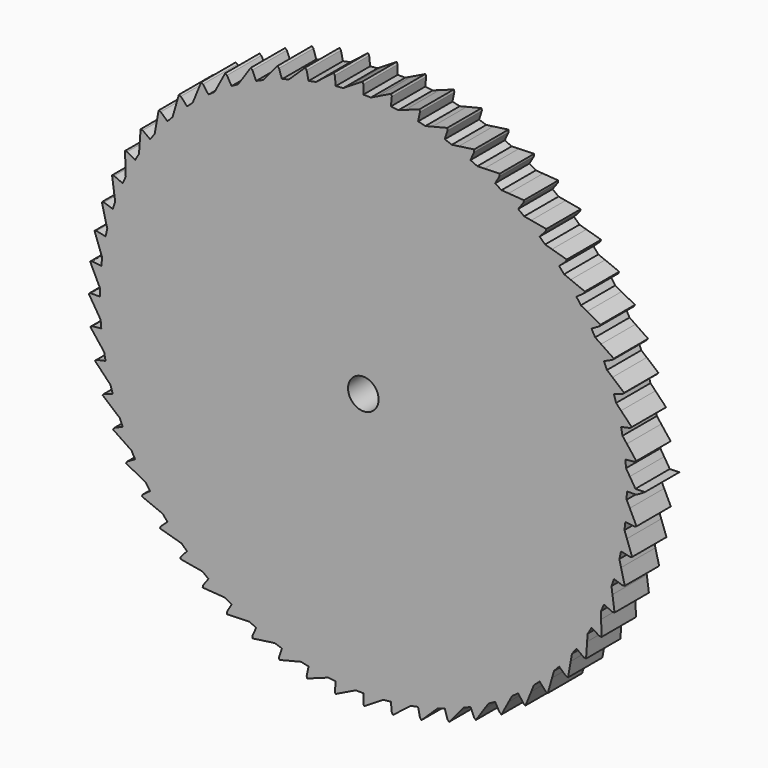
from build123d import *

# Parameters (mm, degrees)
F1_DEPTH = 5
F2_R     = 1.778
F3_DEPTH = 25.4


with BuildPart() as f1:
    # F0 (on Front) → F1 (new body)
    with BuildSketch(Plane.XZ):
        with BuildLine():
            Line((-8.043831, 30.019987), (-7.941397, 29.637695))
            ThreePointArc((-7.941397, 29.637695), (-8.294034, 29.540951), (-8.645493, 29.44001))
            ThreePointArc((-8.645493, 29.44001), (-9.064484, 29.313715), (-9.48163, 29.181457))
            Line((-9.48163, 29.181457), (-9.81129, 30.196044))
            ThreePointArc((-9.81129, 30.196044), (-9.900263, 30.288334), (-9.990715, 30.379174))
            Line((-9.990715, 30.379174), (-11.137709, 29.014725))
            Line((-11.137709, 29.014725), (-10.995875, 28.645235))
            ThreePointArc((-10.995875, 28.645235), (-11.336469, 28.51216), (-11.675452, 28.375035))
            ThreePointArc((-11.675452, 28.375035), (-12.078945, 28.205635), (-12.479982, 28.030498))
            Line((-12.479982, 28.030498), (-12.913888, 29.005068))
            ThreePointArc((-12.913888, 29.005068), (-13.012021, 29.087552), (-13.111473, 29.16844))
            Line((-13.111473, 29.16844), (-14.109561, 27.691572))
            Line((-14.109561, 27.691572), (-13.929881, 27.338931))
            ThreePointArc((-13.929881, 27.338931), (-14.254698, 27.170983), (-14.577491, 26.999176))
            ThreePointArc((-14.577491, 26.999176), (-14.961067, 26.788528), (-15.3416, 26.572431))
            Line((-15.3416, 26.572431), (-15.875, 27.496307))
            ThreePointArc((-15.875, 27.496307), (-15.981217, 27.568081), (-16.088579, 27.63813))
            Line((-16.088579, 27.63813), (-16.926824, 26.065024))
            Line((-16.926824, 26.065024), (-16.711268, 25.733097))
            ThreePointArc((-16.711268, 25.733097), (-17.016751, 25.532116), (-17.319816, 25.327509))
            ThreePointArc((-17.319816, 25.327509), (-17.679272, 25.07792), (-18.035132, 24.82323))
            Line((-18.035132, 24.82323), (-18.662182, 25.68629))
            ThreePointArc((-18.662182, 25.68629), (-18.775319, 25.746568), (-18.889415, 25.805011))
            Line((-18.889415, 25.805011), (-19.558634, 24.152902))
            Line((-19.558634, 24.152902), (-19.309563, 23.845325))
            ThreePointArc((-19.309563, 23.845325), (-19.592364, 23.613514), (-19.872382, 23.378349))
            ThreePointArc((-19.872382, 23.378349), (-20.20378, 23.092554), (-20.531068, 22.802061))
            Line((-20.531068, 22.802061), (-21.244897, 23.594848))
            ThreePointArc((-21.244897, 23.594848), (-21.363715, 23.64297), (-21.483295, 23.689167))
            Line((-21.483295, 23.689167), (-21.976156, 21.976156))
            Line((-21.976156, 21.976156), (-21.696299, 21.696299))
            ThreePointArc((-21.696299, 21.696299), (-21.953319, 21.436197), (-22.207222, 21.17305))
            ThreePointArc((-22.207222, 21.17305), (-22.506931, 20.85418), (-22.802061, 20.531068))
            Line((-22.802061, 20.531068), (-23.594848, 21.244897))
            ThreePointArc((-23.594848, 21.244897), (-23.718046, 21.280335), (-23.8418, 21.313779))
            Line((-23.8418, 21.313779), (-24.152902, 19.558634))
            Line((-24.152902, 19.558634), (-23.845325, 19.309563))
            ThreePointArc((-23.845325, 19.309563), (-24.07375, 19.02402), (-24.298755, 18.735775))
            ThreePointArc((-24.298755, 18.735775), (-24.563491, 18.387324), (-24.82323, 18.035132))
            Line((-24.82323, 18.035132), (-25.68629, 18.662182))
            ThreePointArc((-25.68629, 18.662182), (-25.812517, 18.684548), (-25.939088, 18.704873))
            Line((-25.939088, 18.704873), (-26.065024, 16.926824))
            Line((-26.065024, 16.926824), (-25.733097, 16.711268))
            ThreePointArc((-25.733097, 16.711268), (-25.930423, 16.403413), (-26.124066, 16.093227))
            ThreePointArc((-26.124066, 16.093227), (-26.350928, 15.719012), (-26.572431, 15.3416))
            Line((-26.572431, 15.3416), (-27.496307, 15.875))
            ThreePointArc((-27.496307, 15.875), (-27.62418, 15.88405), (-27.752183, 15.891033))
            Line((-27.752183, 15.891033), (-27.691572, 14.109561))
            Line((-27.691572, 14.109561), (-27.338931, 13.929881))
            ThreePointArc((-27.338931, 13.929881), (-27.502997, 13.603086), (-27.663156, 13.274358))
            Line((-27.663156, 13.274358), (-27.186551, -0.73387))
            Line((-27.186551, -0.73387), (27.195286, 0.477139))
            Line((27.195286, 0.477139), (27.39237, 0.481527))
            Line((27.39237, 0.481527), (27.899687, 0.492825))
            Line((27.899687, 0.492825), (28.746006, 0.511671))
            Line((28.746006, 0.511671), (29.982479, 0.539206))
            Line((29.982479, 0.539206), (31.690754, 0.577247))
            Line((31.690754, 0.577247), (31.036385, 1.626548))
            Line((31.036385, 1.626548), (30.64115, 1.605835))
            ThreePointArc((30.64115, 1.605835), (30.619837, 1.97088), (30.594175, 2.335646))
            ThreePointArc((30.594175, 2.335646), (30.557752, 2.771739), (30.515114, 3.207268))
            Line((30.515114, 3.207268), (31.57607, 3.318779))
            ThreePointArc((31.57607, 3.318779), (31.684841, 3.38662), (31.792503, 3.456208))
            Line((31.792503, 3.456208), (30.696344, 4.861823))
            Line((30.696344, 4.861823), (30.305439, 4.79991))
            ThreePointArc((30.305439, 4.79991), (30.246085, 5.160728), (30.182435, 5.520813))
            ThreePointArc((30.182435, 5.520813), (30.100628, 5.95071), (30.012698, 6.379396))
            Line((30.012698, 6.379396), (31.056186, 6.601196))
            ThreePointArc((31.056186, 6.601196), (31.15727, 6.680035), (31.257068, 6.760496))
            Line((31.257068, 6.760496), (30.019987, 8.043831))
            Line((30.019987, 8.043831), (29.637695, 7.941397))
            ThreePointArc((29.637695, 7.941397), (29.540951, 8.294034), (29.44001, 8.645493))
            ThreePointArc((29.44001, 8.645493), (29.313715, 9.064484), (29.181457, 9.48163))
            Line((29.181457, 9.48163), (30.196044, 9.81129))
            ThreePointArc((30.196044, 9.81129), (30.288334, 9.900263), (30.379174, 9.990715))
            Line((30.379174, 9.990715), (29.014725, 11.137709))
            Line((29.014725, 11.137709), (28.645235, 10.995875))
            ThreePointArc((28.645235, 10.995875), (28.51216, 11.336469), (28.375035, 11.675452))
            ThreePointArc((28.375035, 11.675452), (28.205635, 12.078945), (28.030498, 12.479982))
            Line((28.030498, 12.479982), (29.005068, 12.913888))
            ThreePointArc((29.005068, 12.913888), (29.087552, 13.012021), (29.16844, 13.111473))
            Line((29.16844, 13.111473), (27.691572, 14.109561))
            Line((27.691572, 14.109561), (27.338931, 13.929881))
            ThreePointArc((27.338931, 13.929881), (27.170983, 14.254698), (26.999176, 14.577491))
            ThreePointArc((26.999176, 14.577491), (26.788528, 14.961067), (26.572431, 15.3416))
            Line((26.572431, 15.3416), (27.496307, 15.875))
            ThreePointArc((27.496307, 15.875), (27.568081, 15.981217), (27.63813, 16.088579))
            Line((27.63813, 16.088579), (26.065024, 16.926824))
            Line((26.065024, 16.926824), (25.733097, 16.711268))
            ThreePointArc((25.733097, 16.711268), (25.532116, 17.016751), (25.327509, 17.319816))
            ThreePointArc((25.327509, 17.319816), (25.07792, 17.679272), (24.82323, 18.035132))
            Line((24.82323, 18.035132), (25.68629, 18.662182))
            ThreePointArc((25.68629, 18.662182), (25.746568, 18.775319), (25.805011, 18.889415))
            Line((25.805011, 18.889415), (24.152902, 19.558634))
            Line((24.152902, 19.558634), (23.845325, 19.309563))
            ThreePointArc((23.845325, 19.309563), (23.613514, 19.592364), (23.378349, 19.872382))
            ThreePointArc((23.378349, 19.872382), (23.092554, 20.20378), (22.802061, 20.531068))
            Line((22.802061, 20.531068), (23.594848, 21.244897))
            ThreePointArc((23.594848, 21.244897), (23.64297, 21.363715), (23.689167, 21.483295))
            Line((23.689167, 21.483295), (21.976156, 21.976156))
            Line((21.976156, 21.976156), (21.696299, 21.696299))
            ThreePointArc((21.696299, 21.696299), (21.436197, 21.953319), (21.17305, 22.207222))
            ThreePointArc((21.17305, 22.207222), (20.85418, 22.506931), (20.531068, 22.802061))
            Line((20.531068, 22.802061), (21.244897, 23.594848))
            ThreePointArc((21.244897, 23.594848), (21.280335, 23.718046), (21.313779, 23.8418))
            Line((21.313779, 23.8418), (19.558634, 24.152902))
            Line((19.558634, 24.152902), (19.309563, 23.845325))
            ThreePointArc((19.309563, 23.845325), (19.02402, 24.07375), (18.735775, 24.298755))
            ThreePointArc((18.735775, 24.298755), (18.387324, 24.563491), (18.035132, 24.82323))
            Line((18.035132, 24.82323), (18.662182, 25.68629))
            ThreePointArc((18.662182, 25.68629), (18.684548, 25.812517), (18.704873, 25.939088))
            Line((18.704873, 25.939088), (16.926824, 26.065024))
            Line((16.926824, 26.065024), (16.711268, 25.733097))
            ThreePointArc((16.711268, 25.733097), (16.403413, 25.930423), (16.093227, 26.124066))
            ThreePointArc((16.093227, 26.124066), (15.719012, 26.350928), (15.3416, 26.572431))
            Line((15.3416, 26.572431), (15.875, 27.496307))
            ThreePointArc((15.875, 27.496307), (15.88405, 27.62418), (15.891033, 27.752183))
            Line((15.891033, 27.752183), (14.109561, 27.691572))
            Line((14.109561, 27.691572), (13.929881, 27.338931))
            ThreePointArc((13.929881, 27.338931), (13.603086, 27.502997), (13.274358, 27.663156))
            ThreePointArc((13.274358, 27.663156), (12.87848, 27.849659), (12.479982, 28.030498))
            Line((12.479982, 28.030498), (12.913888, 29.005068))
            ThreePointArc((12.913888, 29.005068), (12.909522, 29.133187), (12.903087, 29.261219))
            Line((12.903087, 29.261219), (11.137709, 29.014725))
            Line((11.137709, 29.014725), (10.995875, 28.645235))
            ThreePointArc((10.995875, 28.645235), (10.653721, 28.774242), (10.310053, 28.899162))
            ThreePointArc((10.310053, 28.899162), (9.896848, 29.043264), (9.48163, 29.181457))
            Line((9.48163, 29.181457), (9.81129, 30.196044))
            ThreePointArc((9.81129, 30.196044), (9.793555, 30.323005), (9.773772, 30.449663))
            Line((9.773772, 30.449663), (8.043831, 30.019987))
            Line((8.043831, 30.019987), (7.941397, 29.637695))
            ThreePointArc((7.941397, 29.637695), (7.587631, 29.730231), (7.232788, 29.818544))
            ThreePointArc((7.232788, 29.818544), (6.806784, 29.918664), (6.379396, 30.012698))
            Line((6.379396, 30.012698), (6.601196, 31.056186))
            ThreePointArc((6.601196, 31.056186), (6.570288, 31.180598), (6.537374, 31.304494))
            Line((6.537374, 31.304494), (4.861823, 30.696344))
            Line((4.861823, 30.696344), (4.79991, 30.305439))
            ThreePointArc((4.79991, 30.305439), (4.43841, 30.360489), (4.07628, 30.411227))
            ThreePointArc((4.07628, 30.411227), (3.642144, 30.466269), (3.207268, 30.515114))
            Line((3.207268, 30.515114), (3.318779, 31.57607))
            ThreePointArc((3.318779, 31.57607), (3.275035, 31.696569), (3.229351, 31.816346))
            Line((3.229351, 31.816346), (1.626548, 31.036385))
            Line((1.626548, 31.036385), (1.605835, 30.64115))
            ThreePointArc((1.605835, 30.64115), (1.240561, 30.658111), (0.875111, 30.670718))
            ThreePointArc((0.875111, 30.670718), (0.4376, 30.680079), (0, 30.6832))
            Line((0, 30.6832), (0, 31.75))
            ThreePointArc((0, 31.75), (-0.0561, 31.865267), (-0.114053, 31.979612))
            Line((-0.114053, 31.979612), (-1.626548, 31.036385))
            Line((-1.626548, 31.036385), (-1.605835, 30.64115))
            ThreePointArc((-1.605835, 30.64115), (-1.97088, 30.619837), (-2.335646, 30.594175))
            ThreePointArc((-2.335646, 30.594175), (-2.771739, 30.557752), (-3.207268, 30.515114))
            Line((-3.207268, 30.515114), (-3.318779, 31.57607))
            ThreePointArc((-3.318779, 31.57607), (-3.38662, 31.684841), (-3.456208, 31.792503))
            Line((-3.456208, 31.792503), (-4.861823, 30.696344))
            Line((-4.861823, 30.696344), (-4.79991, 30.305439))
            ThreePointArc((-4.79991, 30.305439), (-5.160728, 30.246085), (-5.520813, 30.182435))
            ThreePointArc((-5.520813, 30.182435), (-5.95071, 30.100628), (-6.379396, 30.012698))
            Line((-6.379396, 30.012698), (-6.601196, 31.056186))
            ThreePointArc((-6.601196, 31.056186), (-6.680035, 31.15727), (-6.760496, 31.257068))
            Line((-6.760496, 31.257068), (-8.043831, 30.019987))
        make_face()
        with BuildLine():
            ThreePointArc((-8.645493, 29.44001), (-8.294034, 29.540951), (-7.941397, 29.637695))
            Line((-7.941397, 29.637695), (-8.043831, 30.019987))
            Line((-8.043831, 30.019987), (-8.645493, 29.44001))
        make_face()
        with BuildLine():
            Line((-10.995875, 28.645235), (-11.137709, 29.014725))
            Line((-11.137709, 29.014725), (-11.675452, 28.375035))
            ThreePointArc((-11.675452, 28.375035), (-11.336469, 28.51216), (-10.995875, 28.645235))
        make_face()
        with BuildLine():
            Line((-4.861823, 30.696344), (-5.520813, 30.182435))
            ThreePointArc((-5.520813, 30.182435), (-5.160728, 30.246085), (-4.79991, 30.305439))
            Line((-4.79991, 30.305439), (-4.861823, 30.696344))
        make_face()
        with BuildLine():
            Line((-13.929881, 27.338931), (-14.109561, 27.691572))
            Line((-14.109561, 27.691572), (-14.577491, 26.999176))
            ThreePointArc((-14.577491, 26.999176), (-14.254698, 27.170983), (-13.929881, 27.338931))
        make_face()
        with BuildLine():
            Line((-1.626548, 31.036385), (-2.335646, 30.594175))
            ThreePointArc((-2.335646, 30.594175), (-1.97088, 30.619837), (-1.605835, 30.64115))
            Line((-1.605835, 30.64115), (-1.626548, 31.036385))
        make_face()
        with BuildLine():
            Line((-16.711268, 25.733097), (-16.926824, 26.065024))
            Line((-16.926824, 26.065024), (-17.319816, 25.327509))
            ThreePointArc((-17.319816, 25.327509), (-17.016751, 25.532116), (-16.711268, 25.733097))
        make_face()
        with BuildLine():
            Line((1.626548, 31.036385), (0.875111, 30.670718))
            ThreePointArc((0.875111, 30.670718), (1.240561, 30.658111), (1.605835, 30.64115))
            Line((1.605835, 30.64115), (1.626548, 31.036385))
        make_face()
        with BuildLine():
            Line((-19.309563, 23.845325), (-19.558634, 24.152902))
            Line((-19.558634, 24.152902), (-19.872382, 23.378349))
            ThreePointArc((-19.872382, 23.378349), (-19.592364, 23.613514), (-19.309563, 23.845325))
        make_face()
        with BuildLine():
            Line((4.861823, 30.696344), (4.07628, 30.411227))
            ThreePointArc((4.07628, 30.411227), (4.43841, 30.360489), (4.79991, 30.305439))
            Line((4.79991, 30.305439), (4.861823, 30.696344))
        make_face()
        with BuildLine():
            Line((-21.696299, 21.696299), (-21.976156, 21.976156))
            Line((-21.976156, 21.976156), (-22.207222, 21.17305))
            ThreePointArc((-22.207222, 21.17305), (-21.953319, 21.436197), (-21.696299, 21.696299))
        make_face()
        with BuildLine():
            Line((8.043831, 30.019987), (7.232788, 29.818544))
            ThreePointArc((7.232788, 29.818544), (7.587631, 29.730231), (7.941397, 29.637695))
            Line((7.941397, 29.637695), (8.043831, 30.019987))
        make_face()
        with BuildLine():
            Line((-23.845325, 19.309563), (-24.152902, 19.558634))
            Line((-24.152902, 19.558634), (-24.298755, 18.735775))
            ThreePointArc((-24.298755, 18.735775), (-24.07375, 19.02402), (-23.845325, 19.309563))
        make_face()
        with BuildLine():
            Line((11.137709, 29.014725), (10.310053, 28.899162))
            ThreePointArc((10.310053, 28.899162), (10.653721, 28.774242), (10.995875, 28.645235))
            Line((10.995875, 28.645235), (11.137709, 29.014725))
        make_face()
        with BuildLine():
            Line((-25.733097, 16.711268), (-26.065024, 16.926824))
            Line((-26.065024, 16.926824), (-26.124066, 16.093227))
            ThreePointArc((-26.124066, 16.093227), (-25.930423, 16.403413), (-25.733097, 16.711268))
        make_face()
        with BuildLine():
            Line((14.109561, 27.691572), (13.274358, 27.663156))
            ThreePointArc((13.274358, 27.663156), (13.603086, 27.502997), (13.929881, 27.338931))
            Line((13.929881, 27.338931), (14.109561, 27.691572))
        make_face()
        with BuildLine():
            Line((-27.338931, 13.929881), (-27.691572, 14.109561))
            Line((-27.691572, 14.109561), (-27.663156, 13.274358))
            ThreePointArc((-27.663156, 13.274358), (-27.502997, 13.603086), (-27.338931, 13.929881))
        make_face()
        with BuildLine():
            Line((16.926824, 26.065024), (16.093227, 26.124066))
            ThreePointArc((16.093227, 26.124066), (16.403413, 25.930423), (16.711268, 25.733097))
            Line((16.711268, 25.733097), (16.926824, 26.065024))
        make_face()
        with BuildLine():
            Line((-27.186551, -0.73387), (-27.663156, 13.274358))
            ThreePointArc((-27.663156, 13.274358), (-27.849659, 12.87848), (-28.030498, 12.479982))
            Line((-28.030498, 12.479982), (-29.005068, 12.913888))
            ThreePointArc((-29.005068, 12.913888), (-29.133187, 12.909522), (-29.261219, 12.903087))
            Line((-29.261219, 12.903087), (-29.014725, 11.137709))
            Line((-29.014725, 11.137709), (-28.645235, 10.995875))
            ThreePointArc((-28.645235, 10.995875), (-28.774242, 10.653721), (-28.899162, 10.310053))
            ThreePointArc((-28.899162, 10.310053), (-29.043264, 9.896848), (-29.181457, 9.48163))
            Line((-29.181457, 9.48163), (-30.196044, 9.81129))
            ThreePointArc((-30.196044, 9.81129), (-30.323005, 9.793555), (-30.449663, 9.773772))
            Line((-30.449663, 9.773772), (-30.019987, 8.043831))
            Line((-30.019987, 8.043831), (-29.637695, 7.941397))
            ThreePointArc((-29.637695, 7.941397), (-29.730231, 7.587631), (-29.818544, 7.232788))
            ThreePointArc((-29.818544, 7.232788), (-29.918664, 6.806784), (-30.012698, 6.379396))
            Line((-30.012698, 6.379396), (-31.056186, 6.601196))
            ThreePointArc((-31.056186, 6.601196), (-31.180598, 6.570288), (-31.304494, 6.537374))
            Line((-31.304494, 6.537374), (-30.696344, 4.861823))
            Line((-30.696344, 4.861823), (-30.305439, 4.79991))
            ThreePointArc((-30.305439, 4.79991), (-30.360489, 4.43841), (-30.411227, 4.07628))
            ThreePointArc((-30.411227, 4.07628), (-30.466269, 3.642144), (-30.515114, 3.207268))
            Line((-30.515114, 3.207268), (-31.57607, 3.318779))
            ThreePointArc((-31.57607, 3.318779), (-31.696569, 3.275035), (-31.816346, 3.229351))
            Line((-31.816346, 3.229351), (-31.036385, 1.626548))
            Line((-31.036385, 1.626548), (-30.64115, 1.605835))
            ThreePointArc((-30.64115, 1.605835), (-30.658111, 1.240561), (-30.670718, 0.875111))
            ThreePointArc((-30.670718, 0.875111), (-30.680079, 0.4376), (-30.6832, 0))
            Line((-30.6832, 0), (-31.75, 0))
            ThreePointArc((-31.75, 0), (-31.865267, -0.0561), (-31.979612, -0.114053))
            Line((-31.979612, -0.114053), (-31.036385, -1.626548))
            Line((-31.036385, -1.626548), (-30.64115, -1.605835))
            ThreePointArc((-30.64115, -1.605835), (-30.619837, -1.97088), (-30.594175, -2.335646))
            ThreePointArc((-30.594175, -2.335646), (-30.557752, -2.771739), (-30.515114, -3.207268))
            Line((-30.515114, -3.207268), (-31.57607, -3.318779))
            ThreePointArc((-31.57607, -3.318779), (-31.684841, -3.38662), (-31.792503, -3.456208))
            Line((-31.792503, -3.456208), (-30.696344, -4.861823))
            Line((-30.696344, -4.861823), (-30.305439, -4.79991))
            ThreePointArc((-30.305439, -4.79991), (-30.246085, -5.160728), (-30.182435, -5.520813))
            ThreePointArc((-30.182435, -5.520813), (-30.100628, -5.95071), (-30.012698, -6.379396))
            Line((-30.012698, -6.379396), (-31.056186, -6.601196))
            ThreePointArc((-31.056186, -6.601196), (-31.15727, -6.680035), (-31.257068, -6.760496))
            Line((-31.257068, -6.760496), (-30.019987, -8.043831))
            Line((-30.019987, -8.043831), (-29.637695, -7.941397))
            ThreePointArc((-29.637695, -7.941397), (-29.540951, -8.294034), (-29.44001, -8.645493))
            ThreePointArc((-29.44001, -8.645493), (-29.313715, -9.064484), (-29.181457, -9.48163))
            Line((-29.181457, -9.48163), (-30.196044, -9.81129))
            ThreePointArc((-30.196044, -9.81129), (-30.288334, -9.900263), (-30.379174, -9.990715))
            Line((-30.379174, -9.990715), (-29.014725, -11.137709))
            Line((-29.014725, -11.137709), (-28.645235, -10.995875))
            ThreePointArc((-28.645235, -10.995875), (-28.51216, -11.336469), (-28.375035, -11.675452))
            ThreePointArc((-28.375035, -11.675452), (-28.205635, -12.078945), (-28.030498, -12.479982))
            Line((-28.030498, -12.479982), (-29.005068, -12.913888))
            ThreePointArc((-29.005068, -12.913888), (-29.087552, -13.012021), (-29.16844, -13.111473))
            Line((-29.16844, -13.111473), (-27.691572, -14.109561))
            Line((-27.691572, -14.109561), (-27.338931, -13.929881))
            ThreePointArc((-27.338931, -13.929881), (-27.170983, -14.254698), (-26.999176, -14.577491))
            ThreePointArc((-26.999176, -14.577491), (-26.788528, -14.961067), (-26.572431, -15.3416))
            Line((-26.572431, -15.3416), (-27.496307, -15.875))
            ThreePointArc((-27.496307, -15.875), (-27.568081, -15.981217), (-27.63813, -16.088579))
            Line((-27.63813, -16.088579), (-26.065024, -16.926824))
            Line((-26.065024, -16.926824), (-25.733097, -16.711268))
            ThreePointArc((-25.733097, -16.711268), (-25.532116, -17.016751), (-25.327509, -17.319816))
            ThreePointArc((-25.327509, -17.319816), (-25.07792, -17.679272), (-24.82323, -18.035132))
            Line((-24.82323, -18.035132), (-25.68629, -18.662182))
            ThreePointArc((-25.68629, -18.662182), (-25.746568, -18.775319), (-25.805011, -18.889415))
            Line((-25.805011, -18.889415), (-24.152902, -19.558634))
            Line((-24.152902, -19.558634), (-23.845325, -19.309563))
            ThreePointArc((-23.845325, -19.309563), (-23.613514, -19.592364), (-23.378349, -19.872382))
            ThreePointArc((-23.378349, -19.872382), (-23.092554, -20.20378), (-22.802061, -20.531068))
            Line((-22.802061, -20.531068), (-23.594848, -21.244897))
            ThreePointArc((-23.594848, -21.244897), (-23.64297, -21.363715), (-23.689167, -21.483295))
            Line((-23.689167, -21.483295), (-21.976156, -21.976156))
            Line((-21.976156, -21.976156), (-21.696299, -21.696299))
            ThreePointArc((-21.696299, -21.696299), (-21.436197, -21.953319), (-21.17305, -22.207222))
            ThreePointArc((-21.17305, -22.207222), (-20.85418, -22.506931), (-20.531068, -22.802061))
            Line((-20.531068, -22.802061), (-21.244897, -23.594848))
            ThreePointArc((-21.244897, -23.594848), (-21.280335, -23.718046), (-21.313779, -23.8418))
            Line((-21.313779, -23.8418), (-19.558634, -24.152902))
            Line((-19.558634, -24.152902), (-19.309563, -23.845325))
            ThreePointArc((-19.309563, -23.845325), (-19.02402, -24.07375), (-18.735775, -24.298755))
            ThreePointArc((-18.735775, -24.298755), (-18.387324, -24.563491), (-18.035132, -24.82323))
            Line((-18.035132, -24.82323), (-18.662182, -25.68629))
            ThreePointArc((-18.662182, -25.68629), (-18.684548, -25.812517), (-18.704873, -25.939088))
            Line((-18.704873, -25.939088), (-16.926824, -26.065024))
            Line((-16.926824, -26.065024), (-16.711268, -25.733097))
            ThreePointArc((-16.711268, -25.733097), (-16.403413, -25.930423), (-16.093227, -26.124066))
            ThreePointArc((-16.093227, -26.124066), (-15.719012, -26.350928), (-15.3416, -26.572431))
            Line((-15.3416, -26.572431), (-15.875, -27.496307))
            ThreePointArc((-15.875, -27.496307), (-15.88405, -27.62418), (-15.891033, -27.752183))
            Line((-15.891033, -27.752183), (-14.109561, -27.691572))
            Line((-14.109561, -27.691572), (-13.929881, -27.338931))
            ThreePointArc((-13.929881, -27.338931), (-13.603086, -27.502997), (-13.274358, -27.663156))
            ThreePointArc((-13.274358, -27.663156), (-12.87848, -27.849659), (-12.479982, -28.030498))
            Line((-12.479982, -28.030498), (-12.913888, -29.005068))
            ThreePointArc((-12.913888, -29.005068), (-12.909522, -29.133187), (-12.903087, -29.261219))
            Line((-12.903087, -29.261219), (-11.137709, -29.014725))
            Line((-11.137709, -29.014725), (-10.995875, -28.645235))
            ThreePointArc((-10.995875, -28.645235), (-10.653721, -28.774242), (-10.310053, -28.899162))
            ThreePointArc((-10.310053, -28.899162), (-9.896848, -29.043264), (-9.48163, -29.181457))
            Line((-9.48163, -29.181457), (-9.81129, -30.196044))
            ThreePointArc((-9.81129, -30.196044), (-9.793555, -30.323005), (-9.773772, -30.449663))
            Line((-9.773772, -30.449663), (-8.043831, -30.019987))
            Line((-8.043831, -30.019987), (-7.941397, -29.637695))
            ThreePointArc((-7.941397, -29.637695), (-7.587631, -29.730231), (-7.232788, -29.818544))
            ThreePointArc((-7.232788, -29.818544), (-6.806784, -29.918664), (-6.379396, -30.012698))
            Line((-6.379396, -30.012698), (-6.601196, -31.056186))
            ThreePointArc((-6.601196, -31.056186), (-6.570288, -31.180598), (-6.537374, -31.304494))
            Line((-6.537374, -31.304494), (-4.861823, -30.696344))
            Line((-4.861823, -30.696344), (-4.79991, -30.305439))
            ThreePointArc((-4.79991, -30.305439), (-4.43841, -30.360489), (-4.07628, -30.411227))
            ThreePointArc((-4.07628, -30.411227), (-3.642144, -30.466269), (-3.207268, -30.515114))
            Line((-3.207268, -30.515114), (-3.318779, -31.57607))
            ThreePointArc((-3.318779, -31.57607), (-3.275035, -31.696569), (-3.229351, -31.816346))
            Line((-3.229351, -31.816346), (-1.626548, -31.036385))
            Line((-1.626548, -31.036385), (-1.605835, -30.64115))
            ThreePointArc((-1.605835, -30.64115), (-1.240561, -30.658111), (-0.875111, -30.670718))
            ThreePointArc((-0.875111, -30.670718), (-0.4376, -30.680079), (0, -30.6832))
            Line((0, -30.6832), (0, -31.75))
            ThreePointArc((0, -31.75), (0.0561, -31.865267), (0.114053, -31.979612))
            Line((0.114053, -31.979612), (1.626548, -31.036385))
            Line((1.626548, -31.036385), (1.605835, -30.64115))
            ThreePointArc((1.605835, -30.64115), (1.97088, -30.619837), (2.335646, -30.594175))
            ThreePointArc((2.335646, -30.594175), (2.771739, -30.557752), (3.207268, -30.515114))
            Line((3.207268, -30.515114), (3.318779, -31.57607))
            ThreePointArc((3.318779, -31.57607), (3.38662, -31.684841), (3.456208, -31.792503))
            Line((3.456208, -31.792503), (4.861823, -30.696344))
            Line((4.861823, -30.696344), (4.79991, -30.305439))
            ThreePointArc((4.79991, -30.305439), (5.160728, -30.246085), (5.520813, -30.182435))
            ThreePointArc((5.520813, -30.182435), (5.95071, -30.100628), (6.379396, -30.012698))
            Line((6.379396, -30.012698), (6.601196, -31.056186))
            ThreePointArc((6.601196, -31.056186), (6.680035, -31.15727), (6.760496, -31.257068))
            Line((6.760496, -31.257068), (8.043831, -30.019987))
            Line((8.043831, -30.019987), (7.941397, -29.637695))
            ThreePointArc((7.941397, -29.637695), (8.294034, -29.540951), (8.645493, -29.44001))
            ThreePointArc((8.645493, -29.44001), (9.064484, -29.313715), (9.48163, -29.181457))
            Line((9.48163, -29.181457), (9.81129, -30.196044))
            ThreePointArc((9.81129, -30.196044), (9.900263, -30.288334), (9.990715, -30.379174))
            Line((9.990715, -30.379174), (11.137709, -29.014725))
            Line((11.137709, -29.014725), (10.995875, -28.645235))
            ThreePointArc((10.995875, -28.645235), (11.336469, -28.51216), (11.675452, -28.375035))
            ThreePointArc((11.675452, -28.375035), (12.078945, -28.205635), (12.479982, -28.030498))
            Line((12.479982, -28.030498), (12.913888, -29.005068))
            ThreePointArc((12.913888, -29.005068), (13.012021, -29.087552), (13.111473, -29.16844))
            Line((13.111473, -29.16844), (14.109561, -27.691572))
            Line((14.109561, -27.691572), (13.929881, -27.338931))
            ThreePointArc((13.929881, -27.338931), (14.254698, -27.170983), (14.577491, -26.999176))
            ThreePointArc((14.577491, -26.999176), (14.961067, -26.788528), (15.3416, -26.572431))
            Line((15.3416, -26.572431), (15.875, -27.496307))
            ThreePointArc((15.875, -27.496307), (15.981217, -27.568081), (16.088579, -27.63813))
            Line((16.088579, -27.63813), (16.926824, -26.065024))
            Line((16.926824, -26.065024), (16.711268, -25.733097))
            ThreePointArc((16.711268, -25.733097), (17.016751, -25.532116), (17.319816, -25.327509))
            ThreePointArc((17.319816, -25.327509), (17.679272, -25.07792), (18.035132, -24.82323))
            Line((18.035132, -24.82323), (18.662182, -25.68629))
            ThreePointArc((18.662182, -25.68629), (18.775319, -25.746568), (18.889415, -25.805011))
            Line((18.889415, -25.805011), (19.558634, -24.152902))
            Line((19.558634, -24.152902), (19.309563, -23.845325))
            ThreePointArc((19.309563, -23.845325), (19.592364, -23.613514), (19.872382, -23.378349))
            ThreePointArc((19.872382, -23.378349), (20.20378, -23.092554), (20.531068, -22.802061))
            Line((20.531068, -22.802061), (21.244897, -23.594848))
            ThreePointArc((21.244897, -23.594848), (21.363715, -23.64297), (21.483295, -23.689167))
            Line((21.483295, -23.689167), (21.976156, -21.976156))
            Line((21.976156, -21.976156), (21.696299, -21.696299))
            ThreePointArc((21.696299, -21.696299), (21.953319, -21.436197), (22.207222, -21.17305))
            ThreePointArc((22.207222, -21.17305), (22.506931, -20.85418), (22.802061, -20.531068))
            Line((22.802061, -20.531068), (23.594848, -21.244897))
            ThreePointArc((23.594848, -21.244897), (23.718046, -21.280335), (23.8418, -21.313779))
            Line((23.8418, -21.313779), (24.152902, -19.558634))
            Line((24.152902, -19.558634), (23.845325, -19.309563))
            ThreePointArc((23.845325, -19.309563), (24.07375, -19.02402), (24.298755, -18.735775))
            ThreePointArc((24.298755, -18.735775), (24.563491, -18.387324), (24.82323, -18.035132))
            Line((24.82323, -18.035132), (25.68629, -18.662182))
            ThreePointArc((25.68629, -18.662182), (25.812517, -18.684548), (25.939088, -18.704873))
            Line((25.939088, -18.704873), (26.065024, -16.926824))
            Line((26.065024, -16.926824), (25.733097, -16.711268))
            ThreePointArc((25.733097, -16.711268), (25.930423, -16.403413), (26.124066, -16.093227))
            ThreePointArc((26.124066, -16.093227), (26.350928, -15.719012), (26.572431, -15.3416))
            Line((26.572431, -15.3416), (27.496307, -15.875))
            ThreePointArc((27.496307, -15.875), (27.62418, -15.88405), (27.752183, -15.891033))
            Line((27.752183, -15.891033), (27.691572, -14.109561))
            Line((27.691572, -14.109561), (27.338931, -13.929881))
            ThreePointArc((27.338931, -13.929881), (27.502997, -13.603086), (27.663156, -13.274358))
            Line((27.663156, -13.274358), (27.195286, 0.477139))
            Line((27.195286, 0.477139), (-27.186551, -0.73387))
        make_face()
        with BuildLine():
            Line((27.39237, 0.481527), (27.195286, 0.477139))
            Line((27.195286, 0.477139), (27.663156, -13.274358))
            ThreePointArc((27.663156, -13.274358), (27.849659, -12.87848), (28.030498, -12.479982))
            Line((28.030498, -12.479982), (29.005068, -12.913888))
            ThreePointArc((29.005068, -12.913888), (29.133187, -12.909522), (29.261219, -12.903087))
            Line((29.261219, -12.903087), (29.014725, -11.137709))
            Line((29.014725, -11.137709), (28.645235, -10.995875))
            ThreePointArc((28.645235, -10.995875), (28.774242, -10.653721), (28.899162, -10.310053))
            Line((28.899162, -10.310053), (27.39237, 0.481527))
        make_face()
        with BuildLine():
            Line((27.691572, -14.109561), (27.663156, -13.274358))
            ThreePointArc((27.663156, -13.274358), (27.502997, -13.603086), (27.338931, -13.929881))
            Line((27.338931, -13.929881), (27.691572, -14.109561))
        make_face()
        with BuildLine():
            Line((27.899687, 0.492825), (27.39237, 0.481527))
            Line((27.39237, 0.481527), (28.899162, -10.310053))
            ThreePointArc((28.899162, -10.310053), (29.043264, -9.896848), (29.181457, -9.48163))
            Line((29.181457, -9.48163), (30.196044, -9.81129))
            ThreePointArc((30.196044, -9.81129), (30.323005, -9.793555), (30.449663, -9.773772))
            Line((30.449663, -9.773772), (30.019987, -8.043831))
            Line((30.019987, -8.043831), (29.637695, -7.941397))
            ThreePointArc((29.637695, -7.941397), (29.730231, -7.587631), (29.818544, -7.232788))
            Line((29.818544, -7.232788), (27.899687, 0.492825))
        make_face()
        with BuildLine():
            Line((29.014725, -11.137709), (28.899162, -10.310053))
            ThreePointArc((28.899162, -10.310053), (28.774242, -10.653721), (28.645235, -10.995875))
            Line((28.645235, -10.995875), (29.014725, -11.137709))
        make_face()
        with BuildLine():
            Line((28.746006, 0.511671), (27.899687, 0.492825))
            Line((27.899687, 0.492825), (29.818544, -7.232788))
            ThreePointArc((29.818544, -7.232788), (29.918664, -6.806784), (30.012698, -6.379396))
            Line((30.012698, -6.379396), (31.056186, -6.601196))
            ThreePointArc((31.056186, -6.601196), (31.180598, -6.570288), (31.304494, -6.537374))
            Line((31.304494, -6.537374), (30.696344, -4.861823))
            Line((30.696344, -4.861823), (30.305439, -4.79991))
            ThreePointArc((30.305439, -4.79991), (30.360489, -4.43841), (30.411227, -4.07628))
            Line((30.411227, -4.07628), (28.746006, 0.511671))
        make_face()
        with BuildLine():
            Line((-28.645235, 10.995875), (-29.014725, 11.137709))
            Line((-29.014725, 11.137709), (-28.899162, 10.310053))
            ThreePointArc((-28.899162, 10.310053), (-28.774242, 10.653721), (-28.645235, 10.995875))
        make_face()
        with BuildLine():
            Line((19.558634, 24.152902), (18.735775, 24.298755))
            ThreePointArc((18.735775, 24.298755), (19.02402, 24.07375), (19.309563, 23.845325))
            Line((19.309563, 23.845325), (19.558634, 24.152902))
        make_face()
        with BuildLine():
            Line((30.019987, -8.043831), (29.818544, -7.232788))
            ThreePointArc((29.818544, -7.232788), (29.730231, -7.587631), (29.637695, -7.941397))
            Line((29.637695, -7.941397), (30.019987, -8.043831))
        make_face()
        with BuildLine():
            Line((29.982479, 0.539206), (28.746006, 0.511671))
            Line((28.746006, 0.511671), (30.411227, -4.07628))
            ThreePointArc((30.411227, -4.07628), (30.466269, -3.642144), (30.515114, -3.207268))
            Line((30.515114, -3.207268), (31.57607, -3.318779))
            ThreePointArc((31.57607, -3.318779), (31.696569, -3.275035), (31.816346, -3.229351))
            Line((31.816346, -3.229351), (31.036385, -1.626548))
            Line((31.036385, -1.626548), (30.64115, -1.605835))
            ThreePointArc((30.64115, -1.605835), (30.658111, -1.240561), (30.670718, -0.875111))
            Line((30.670718, -0.875111), (29.982479, 0.539206))
        make_face()
        with BuildLine():
            Line((30.696344, -4.861823), (30.411227, -4.07628))
            ThreePointArc((30.411227, -4.07628), (30.360489, -4.43841), (30.305439, -4.79991))
            Line((30.305439, -4.79991), (30.696344, -4.861823))
        make_face()
        with BuildLine():
            Line((31.690754, 0.577247), (29.982479, 0.539206))
            Line((29.982479, 0.539206), (30.670718, -0.875111))
            ThreePointArc((30.670718, -0.875111), (30.680079, -0.4376), (30.6832, 0))
            Line((30.6832, 0), (31.75, 0))
            ThreePointArc((31.75, 0), (31.865267, 0.0561), (31.979612, 0.114053))
            Line((31.979612, 0.114053), (31.690754, 0.577247))
        make_face()
        with BuildLine():
            Line((31.036385, -1.626548), (30.670718, -0.875111))
            ThreePointArc((30.670718, -0.875111), (30.658111, -1.240561), (30.64115, -1.605835))
            Line((30.64115, -1.605835), (31.036385, -1.626548))
        make_face()
        with BuildLine():
            Line((32.798577, 0.601916), (31.690754, 0.577247))
            Line((31.690754, 0.577247), (31.979612, 0.114053))
            ThreePointArc((31.979612, 0.114053), (32.396425, 0.345679), (32.798577, 0.601916))
        make_face()
        with BuildLine():
            Line((26.065024, -16.926824), (26.124066, -16.093227))
            ThreePointArc((26.124066, -16.093227), (25.930423, -16.403413), (25.733097, -16.711268))
            Line((25.733097, -16.711268), (26.065024, -16.926824))
        make_face()
        with BuildLine():
            Line((30.64115, 1.605835), (31.036385, 1.626548))
            Line((31.036385, 1.626548), (30.594175, 2.335646))
            ThreePointArc((30.594175, 2.335646), (30.619837, 1.97088), (30.64115, 1.605835))
        make_face()
        with BuildLine():
            Line((-29.637695, 7.941397), (-30.019987, 8.043831))
            Line((-30.019987, 8.043831), (-29.818544, 7.232788))
            ThreePointArc((-29.818544, 7.232788), (-29.730231, 7.587631), (-29.637695, 7.941397))
        make_face()
        with BuildLine():
            Line((21.976156, 21.976156), (21.17305, 22.207222))
            ThreePointArc((21.17305, 22.207222), (21.436197, 21.953319), (21.696299, 21.696299))
            Line((21.696299, 21.696299), (21.976156, 21.976156))
        make_face()
        with BuildLine():
            Line((24.152902, -19.558634), (24.298755, -18.735775))
            ThreePointArc((24.298755, -18.735775), (24.07375, -19.02402), (23.845325, -19.309563))
            Line((23.845325, -19.309563), (24.152902, -19.558634))
        make_face()
        with BuildLine():
            Line((30.305439, 4.79991), (30.696344, 4.861823))
            Line((30.696344, 4.861823), (30.182435, 5.520813))
            ThreePointArc((30.182435, 5.520813), (30.246085, 5.160728), (30.305439, 4.79991))
        make_face()
        with BuildLine():
            Line((-30.305439, 4.79991), (-30.696344, 4.861823))
            Line((-30.696344, 4.861823), (-30.411227, 4.07628))
            ThreePointArc((-30.411227, 4.07628), (-30.360489, 4.43841), (-30.305439, 4.79991))
        make_face()
        with BuildLine():
            Line((24.152902, 19.558634), (23.378349, 19.872382))
            ThreePointArc((23.378349, 19.872382), (23.613514, 19.592364), (23.845325, 19.309563))
            Line((23.845325, 19.309563), (24.152902, 19.558634))
        make_face()
        with BuildLine():
            Line((21.976156, -21.976156), (22.207222, -21.17305))
            ThreePointArc((22.207222, -21.17305), (21.953319, -21.436197), (21.696299, -21.696299))
            Line((21.696299, -21.696299), (21.976156, -21.976156))
        make_face()
        with BuildLine():
            Line((29.637695, 7.941397), (30.019987, 8.043831))
            Line((30.019987, 8.043831), (29.44001, 8.645493))
            ThreePointArc((29.44001, 8.645493), (29.540951, 8.294034), (29.637695, 7.941397))
        make_face()
        with BuildLine():
            Line((-30.64115, 1.605835), (-31.036385, 1.626548))
            Line((-31.036385, 1.626548), (-30.670718, 0.875111))
            ThreePointArc((-30.670718, 0.875111), (-30.658111, 1.240561), (-30.64115, 1.605835))
        make_face()
        with BuildLine():
            Line((26.065024, 16.926824), (25.327509, 17.319816))
            ThreePointArc((25.327509, 17.319816), (25.532116, 17.016751), (25.733097, 16.711268))
            Line((25.733097, 16.711268), (26.065024, 16.926824))
        make_face()
        with BuildLine():
            Line((19.558634, -24.152902), (19.872382, -23.378349))
            ThreePointArc((19.872382, -23.378349), (19.592364, -23.613514), (19.309563, -23.845325))
            Line((19.309563, -23.845325), (19.558634, -24.152902))
        make_face()
        with BuildLine():
            Line((28.645235, 10.995875), (29.014725, 11.137709))
            Line((29.014725, 11.137709), (28.375035, 11.675452))
            ThreePointArc((28.375035, 11.675452), (28.51216, 11.336469), (28.645235, 10.995875))
        make_face()
        with BuildLine():
            Line((-30.64115, -1.605835), (-31.036385, -1.626548))
            Line((-31.036385, -1.626548), (-30.594175, -2.335646))
            ThreePointArc((-30.594175, -2.335646), (-30.619837, -1.97088), (-30.64115, -1.605835))
        make_face()
        with BuildLine():
            Line((27.691572, 14.109561), (26.999176, 14.577491))
            ThreePointArc((26.999176, 14.577491), (27.170983, 14.254698), (27.338931, 13.929881))
            Line((27.338931, 13.929881), (27.691572, 14.109561))
        make_face()
        with BuildLine():
            Line((16.926824, -26.065024), (17.319816, -25.327509))
            ThreePointArc((17.319816, -25.327509), (17.016751, -25.532116), (16.711268, -25.733097))
            Line((16.711268, -25.733097), (16.926824, -26.065024))
        make_face()
        with BuildLine():
            Line((-30.305439, -4.79991), (-30.696344, -4.861823))
            Line((-30.696344, -4.861823), (-30.182435, -5.520813))
            ThreePointArc((-30.182435, -5.520813), (-30.246085, -5.160728), (-30.305439, -4.79991))
        make_face()
        with BuildLine():
            Line((14.109561, -27.691572), (14.577491, -26.999176))
            ThreePointArc((14.577491, -26.999176), (14.254698, -27.170983), (13.929881, -27.338931))
            Line((13.929881, -27.338931), (14.109561, -27.691572))
        make_face()
        with BuildLine():
            Line((-29.637695, -7.941397), (-30.019987, -8.043831))
            Line((-30.019987, -8.043831), (-29.44001, -8.645493))
            ThreePointArc((-29.44001, -8.645493), (-29.540951, -8.294034), (-29.637695, -7.941397))
        make_face()
        with BuildLine():
            Line((11.137709, -29.014725), (11.675452, -28.375035))
            ThreePointArc((11.675452, -28.375035), (11.336469, -28.51216), (10.995875, -28.645235))
            Line((10.995875, -28.645235), (11.137709, -29.014725))
        make_face()
        with BuildLine():
            Line((-28.645235, -10.995875), (-29.014725, -11.137709))
            Line((-29.014725, -11.137709), (-28.375035, -11.675452))
            ThreePointArc((-28.375035, -11.675452), (-28.51216, -11.336469), (-28.645235, -10.995875))
        make_face()
        with BuildLine():
            Line((8.043831, -30.019987), (8.645493, -29.44001))
            ThreePointArc((8.645493, -29.44001), (8.294034, -29.540951), (7.941397, -29.637695))
            Line((7.941397, -29.637695), (8.043831, -30.019987))
        make_face()
        with BuildLine():
            Line((-27.338931, -13.929881), (-27.691572, -14.109561))
            Line((-27.691572, -14.109561), (-26.999176, -14.577491))
            ThreePointArc((-26.999176, -14.577491), (-27.170983, -14.254698), (-27.338931, -13.929881))
        make_face()
        with BuildLine():
            Line((4.861823, -30.696344), (5.520813, -30.182435))
            ThreePointArc((5.520813, -30.182435), (5.160728, -30.246085), (4.79991, -30.305439))
            Line((4.79991, -30.305439), (4.861823, -30.696344))
        make_face()
        with BuildLine():
            Line((-25.733097, -16.711268), (-26.065024, -16.926824))
            Line((-26.065024, -16.926824), (-25.327509, -17.319816))
            ThreePointArc((-25.327509, -17.319816), (-25.532116, -17.016751), (-25.733097, -16.711268))
        make_face()
        with BuildLine():
            Line((1.626548, -31.036385), (2.335646, -30.594175))
            ThreePointArc((2.335646, -30.594175), (1.97088, -30.619837), (1.605835, -30.64115))
            Line((1.605835, -30.64115), (1.626548, -31.036385))
        make_face()
        with BuildLine():
            Line((-23.845325, -19.309563), (-24.152902, -19.558634))
            Line((-24.152902, -19.558634), (-23.378349, -19.872382))
            ThreePointArc((-23.378349, -19.872382), (-23.613514, -19.592364), (-23.845325, -19.309563))
        make_face()
        with BuildLine():
            Line((-1.626548, -31.036385), (-0.875111, -30.670718))
            ThreePointArc((-0.875111, -30.670718), (-1.240561, -30.658111), (-1.605835, -30.64115))
            Line((-1.605835, -30.64115), (-1.626548, -31.036385))
        make_face()
        with BuildLine():
            Line((-21.696299, -21.696299), (-21.976156, -21.976156))
            Line((-21.976156, -21.976156), (-21.17305, -22.207222))
            ThreePointArc((-21.17305, -22.207222), (-21.436197, -21.953319), (-21.696299, -21.696299))
        make_face()
        with BuildLine():
            Line((-4.861823, -30.696344), (-4.07628, -30.411227))
            ThreePointArc((-4.07628, -30.411227), (-4.43841, -30.360489), (-4.79991, -30.305439))
            Line((-4.79991, -30.305439), (-4.861823, -30.696344))
        make_face()
        with BuildLine():
            Line((-19.309563, -23.845325), (-19.558634, -24.152902))
            Line((-19.558634, -24.152902), (-18.735775, -24.298755))
            ThreePointArc((-18.735775, -24.298755), (-19.02402, -24.07375), (-19.309563, -23.845325))
        make_face()
        with BuildLine():
            Line((-8.043831, -30.019987), (-7.232788, -29.818544))
            ThreePointArc((-7.232788, -29.818544), (-7.587631, -29.730231), (-7.941397, -29.637695))
            Line((-7.941397, -29.637695), (-8.043831, -30.019987))
        make_face()
        with BuildLine():
            Line((-16.711268, -25.733097), (-16.926824, -26.065024))
            Line((-16.926824, -26.065024), (-16.093227, -26.124066))
            ThreePointArc((-16.093227, -26.124066), (-16.403413, -25.930423), (-16.711268, -25.733097))
        make_face()
        with BuildLine():
            Line((-11.137709, -29.014725), (-10.310053, -28.899162))
            ThreePointArc((-10.310053, -28.899162), (-10.653721, -28.774242), (-10.995875, -28.645235))
            Line((-10.995875, -28.645235), (-11.137709, -29.014725))
        make_face()
        with BuildLine():
            Line((-13.929881, -27.338931), (-14.109561, -27.691572))
            Line((-14.109561, -27.691572), (-13.274358, -27.663156))
            ThreePointArc((-13.274358, -27.663156), (-13.603086, -27.502997), (-13.929881, -27.338931))
        make_face()
        with BuildLine():
            Line((-8.043831, 30.019987), (-7.941397, 29.637695))
            ThreePointArc((-7.941397, 29.637695), (-8.294034, 29.540951), (-8.645493, 29.44001))
            ThreePointArc((-8.645493, 29.44001), (-9.064484, 29.313715), (-9.48163, 29.181457))
            Line((-9.48163, 29.181457), (-9.81129, 30.196044))
            ThreePointArc((-9.81129, 30.196044), (-9.900263, 30.288334), (-9.990715, 30.379174))
            Line((-9.990715, 30.379174), (-11.137709, 29.014725))
            Line((-11.137709, 29.014725), (-10.995875, 28.645235))
            ThreePointArc((-10.995875, 28.645235), (-11.336469, 28.51216), (-11.675452, 28.375035))
            ThreePointArc((-11.675452, 28.375035), (-12.078945, 28.205635), (-12.479982, 28.030498))
            Line((-12.479982, 28.030498), (-12.913888, 29.005068))
            ThreePointArc((-12.913888, 29.005068), (-13.012021, 29.087552), (-13.111473, 29.16844))
            Line((-13.111473, 29.16844), (-14.109561, 27.691572))
            Line((-14.109561, 27.691572), (-13.929881, 27.338931))
            ThreePointArc((-13.929881, 27.338931), (-14.254698, 27.170983), (-14.577491, 26.999176))
            ThreePointArc((-14.577491, 26.999176), (-14.961067, 26.788528), (-15.3416, 26.572431))
            Line((-15.3416, 26.572431), (-15.875, 27.496307))
            ThreePointArc((-15.875, 27.496307), (-15.981217, 27.568081), (-16.088579, 27.63813))
            Line((-16.088579, 27.63813), (-16.926824, 26.065024))
            Line((-16.926824, 26.065024), (-16.711268, 25.733097))
            ThreePointArc((-16.711268, 25.733097), (-17.016751, 25.532116), (-17.319816, 25.327509))
            ThreePointArc((-17.319816, 25.327509), (-17.679272, 25.07792), (-18.035132, 24.82323))
            Line((-18.035132, 24.82323), (-18.662182, 25.68629))
            ThreePointArc((-18.662182, 25.68629), (-18.775319, 25.746568), (-18.889415, 25.805011))
            Line((-18.889415, 25.805011), (-19.558634, 24.152902))
            Line((-19.558634, 24.152902), (-19.309563, 23.845325))
            ThreePointArc((-19.309563, 23.845325), (-19.592364, 23.613514), (-19.872382, 23.378349))
            ThreePointArc((-19.872382, 23.378349), (-20.20378, 23.092554), (-20.531068, 22.802061))
            Line((-20.531068, 22.802061), (-21.244897, 23.594848))
            ThreePointArc((-21.244897, 23.594848), (-21.363715, 23.64297), (-21.483295, 23.689167))
            Line((-21.483295, 23.689167), (-21.976156, 21.976156))
            Line((-21.976156, 21.976156), (-21.696299, 21.696299))
            ThreePointArc((-21.696299, 21.696299), (-21.953319, 21.436197), (-22.207222, 21.17305))
            ThreePointArc((-22.207222, 21.17305), (-22.506931, 20.85418), (-22.802061, 20.531068))
            Line((-22.802061, 20.531068), (-23.594848, 21.244897))
            ThreePointArc((-23.594848, 21.244897), (-23.718046, 21.280335), (-23.8418, 21.313779))
            Line((-23.8418, 21.313779), (-24.152902, 19.558634))
            Line((-24.152902, 19.558634), (-23.845325, 19.309563))
            ThreePointArc((-23.845325, 19.309563), (-24.07375, 19.02402), (-24.298755, 18.735775))
            ThreePointArc((-24.298755, 18.735775), (-24.563491, 18.387324), (-24.82323, 18.035132))
            Line((-24.82323, 18.035132), (-25.68629, 18.662182))
            ThreePointArc((-25.68629, 18.662182), (-25.812517, 18.684548), (-25.939088, 18.704873))
            Line((-25.939088, 18.704873), (-26.065024, 16.926824))
            Line((-26.065024, 16.926824), (-25.733097, 16.711268))
            ThreePointArc((-25.733097, 16.711268), (-25.930423, 16.403413), (-26.124066, 16.093227))
            ThreePointArc((-26.124066, 16.093227), (-26.350928, 15.719012), (-26.572431, 15.3416))
            Line((-26.572431, 15.3416), (-27.496307, 15.875))
            ThreePointArc((-27.496307, 15.875), (-27.62418, 15.88405), (-27.752183, 15.891033))
            Line((-27.752183, 15.891033), (-27.691572, 14.109561))
            Line((-27.691572, 14.109561), (-27.338931, 13.929881))
            ThreePointArc((-27.338931, 13.929881), (-27.502997, 13.603086), (-27.663156, 13.274358))
            Line((-27.663156, 13.274358), (-27.186551, -0.73387))
            Line((-27.186551, -0.73387), (27.195286, 0.477139))
            Line((27.195286, 0.477139), (27.39237, 0.481527))
            Line((27.39237, 0.481527), (27.899687, 0.492825))
            Line((27.899687, 0.492825), (28.746006, 0.511671))
            Line((28.746006, 0.511671), (29.982479, 0.539206))
            Line((29.982479, 0.539206), (31.690754, 0.577247))
            Line((31.690754, 0.577247), (31.036385, 1.626548))
            Line((31.036385, 1.626548), (30.64115, 1.605835))
            ThreePointArc((30.64115, 1.605835), (30.619837, 1.97088), (30.594175, 2.335646))
            ThreePointArc((30.594175, 2.335646), (30.557752, 2.771739), (30.515114, 3.207268))
            Line((30.515114, 3.207268), (31.57607, 3.318779))
            ThreePointArc((31.57607, 3.318779), (31.684841, 3.38662), (31.792503, 3.456208))
            Line((31.792503, 3.456208), (30.696344, 4.861823))
            Line((30.696344, 4.861823), (30.305439, 4.79991))
            ThreePointArc((30.305439, 4.79991), (30.246085, 5.160728), (30.182435, 5.520813))
            ThreePointArc((30.182435, 5.520813), (30.100628, 5.95071), (30.012698, 6.379396))
            Line((30.012698, 6.379396), (31.056186, 6.601196))
            ThreePointArc((31.056186, 6.601196), (31.15727, 6.680035), (31.257068, 6.760496))
            Line((31.257068, 6.760496), (30.019987, 8.043831))
            Line((30.019987, 8.043831), (29.637695, 7.941397))
            ThreePointArc((29.637695, 7.941397), (29.540951, 8.294034), (29.44001, 8.645493))
            ThreePointArc((29.44001, 8.645493), (29.313715, 9.064484), (29.181457, 9.48163))
            Line((29.181457, 9.48163), (30.196044, 9.81129))
            ThreePointArc((30.196044, 9.81129), (30.288334, 9.900263), (30.379174, 9.990715))
            Line((30.379174, 9.990715), (29.014725, 11.137709))
            Line((29.014725, 11.137709), (28.645235, 10.995875))
            ThreePointArc((28.645235, 10.995875), (28.51216, 11.336469), (28.375035, 11.675452))
            ThreePointArc((28.375035, 11.675452), (28.205635, 12.078945), (28.030498, 12.479982))
            Line((28.030498, 12.479982), (29.005068, 12.913888))
            ThreePointArc((29.005068, 12.913888), (29.087552, 13.012021), (29.16844, 13.111473))
            Line((29.16844, 13.111473), (27.691572, 14.109561))
            Line((27.691572, 14.109561), (27.338931, 13.929881))
            ThreePointArc((27.338931, 13.929881), (27.170983, 14.254698), (26.999176, 14.577491))
            ThreePointArc((26.999176, 14.577491), (26.788528, 14.961067), (26.572431, 15.3416))
            Line((26.572431, 15.3416), (27.496307, 15.875))
            ThreePointArc((27.496307, 15.875), (27.568081, 15.981217), (27.63813, 16.088579))
            Line((27.63813, 16.088579), (26.065024, 16.926824))
            Line((26.065024, 16.926824), (25.733097, 16.711268))
            ThreePointArc((25.733097, 16.711268), (25.532116, 17.016751), (25.327509, 17.319816))
            ThreePointArc((25.327509, 17.319816), (25.07792, 17.679272), (24.82323, 18.035132))
            Line((24.82323, 18.035132), (25.68629, 18.662182))
            ThreePointArc((25.68629, 18.662182), (25.746568, 18.775319), (25.805011, 18.889415))
            Line((25.805011, 18.889415), (24.152902, 19.558634))
            Line((24.152902, 19.558634), (23.845325, 19.309563))
            ThreePointArc((23.845325, 19.309563), (23.613514, 19.592364), (23.378349, 19.872382))
            ThreePointArc((23.378349, 19.872382), (23.092554, 20.20378), (22.802061, 20.531068))
            Line((22.802061, 20.531068), (23.594848, 21.244897))
            ThreePointArc((23.594848, 21.244897), (23.64297, 21.363715), (23.689167, 21.483295))
            Line((23.689167, 21.483295), (21.976156, 21.976156))
            Line((21.976156, 21.976156), (21.696299, 21.696299))
            ThreePointArc((21.696299, 21.696299), (21.436197, 21.953319), (21.17305, 22.207222))
            ThreePointArc((21.17305, 22.207222), (20.85418, 22.506931), (20.531068, 22.802061))
            Line((20.531068, 22.802061), (21.244897, 23.594848))
            ThreePointArc((21.244897, 23.594848), (21.280335, 23.718046), (21.313779, 23.8418))
            Line((21.313779, 23.8418), (19.558634, 24.152902))
            Line((19.558634, 24.152902), (19.309563, 23.845325))
            ThreePointArc((19.309563, 23.845325), (19.02402, 24.07375), (18.735775, 24.298755))
            ThreePointArc((18.735775, 24.298755), (18.387324, 24.563491), (18.035132, 24.82323))
            Line((18.035132, 24.82323), (18.662182, 25.68629))
            ThreePointArc((18.662182, 25.68629), (18.684548, 25.812517), (18.704873, 25.939088))
            Line((18.704873, 25.939088), (16.926824, 26.065024))
            Line((16.926824, 26.065024), (16.711268, 25.733097))
            ThreePointArc((16.711268, 25.733097), (16.403413, 25.930423), (16.093227, 26.124066))
            ThreePointArc((16.093227, 26.124066), (15.719012, 26.350928), (15.3416, 26.572431))
            Line((15.3416, 26.572431), (15.875, 27.496307))
            ThreePointArc((15.875, 27.496307), (15.88405, 27.62418), (15.891033, 27.752183))
            Line((15.891033, 27.752183), (14.109561, 27.691572))
            Line((14.109561, 27.691572), (13.929881, 27.338931))
            ThreePointArc((13.929881, 27.338931), (13.603086, 27.502997), (13.274358, 27.663156))
            ThreePointArc((13.274358, 27.663156), (12.87848, 27.849659), (12.479982, 28.030498))
            Line((12.479982, 28.030498), (12.913888, 29.005068))
            ThreePointArc((12.913888, 29.005068), (12.909522, 29.133187), (12.903087, 29.261219))
            Line((12.903087, 29.261219), (11.137709, 29.014725))
            Line((11.137709, 29.014725), (10.995875, 28.645235))
            ThreePointArc((10.995875, 28.645235), (10.653721, 28.774242), (10.310053, 28.899162))
            ThreePointArc((10.310053, 28.899162), (9.896848, 29.043264), (9.48163, 29.181457))
            Line((9.48163, 29.181457), (9.81129, 30.196044))
            ThreePointArc((9.81129, 30.196044), (9.793555, 30.323005), (9.773772, 30.449663))
            Line((9.773772, 30.449663), (8.043831, 30.019987))
            Line((8.043831, 30.019987), (7.941397, 29.637695))
            ThreePointArc((7.941397, 29.637695), (7.587631, 29.730231), (7.232788, 29.818544))
            ThreePointArc((7.232788, 29.818544), (6.806784, 29.918664), (6.379396, 30.012698))
            Line((6.379396, 30.012698), (6.601196, 31.056186))
            ThreePointArc((6.601196, 31.056186), (6.570288, 31.180598), (6.537374, 31.304494))
            Line((6.537374, 31.304494), (4.861823, 30.696344))
            Line((4.861823, 30.696344), (4.79991, 30.305439))
            ThreePointArc((4.79991, 30.305439), (4.43841, 30.360489), (4.07628, 30.411227))
            ThreePointArc((4.07628, 30.411227), (3.642144, 30.466269), (3.207268, 30.515114))
            Line((3.207268, 30.515114), (3.318779, 31.57607))
            ThreePointArc((3.318779, 31.57607), (3.275035, 31.696569), (3.229351, 31.816346))
            Line((3.229351, 31.816346), (1.626548, 31.036385))
            Line((1.626548, 31.036385), (1.605835, 30.64115))
            ThreePointArc((1.605835, 30.64115), (1.240561, 30.658111), (0.875111, 30.670718))
            ThreePointArc((0.875111, 30.670718), (0.4376, 30.680079), (0, 30.6832))
            Line((0, 30.6832), (0, 31.75))
            ThreePointArc((0, 31.75), (-0.0561, 31.865267), (-0.114053, 31.979612))
            Line((-0.114053, 31.979612), (-1.626548, 31.036385))
            Line((-1.626548, 31.036385), (-1.605835, 30.64115))
            ThreePointArc((-1.605835, 30.64115), (-1.97088, 30.619837), (-2.335646, 30.594175))
            ThreePointArc((-2.335646, 30.594175), (-2.771739, 30.557752), (-3.207268, 30.515114))
            Line((-3.207268, 30.515114), (-3.318779, 31.57607))
            ThreePointArc((-3.318779, 31.57607), (-3.38662, 31.684841), (-3.456208, 31.792503))
            Line((-3.456208, 31.792503), (-4.861823, 30.696344))
            Line((-4.861823, 30.696344), (-4.79991, 30.305439))
            ThreePointArc((-4.79991, 30.305439), (-5.160728, 30.246085), (-5.520813, 30.182435))
            ThreePointArc((-5.520813, 30.182435), (-5.95071, 30.100628), (-6.379396, 30.012698))
            Line((-6.379396, 30.012698), (-6.601196, 31.056186))
            ThreePointArc((-6.601196, 31.056186), (-6.680035, 31.15727), (-6.760496, 31.257068))
            Line((-6.760496, 31.257068), (-8.043831, 30.019987))
        make_face()
    extrude(amount=F1_DEPTH)

    # F2 (on face) → F3 (cut)
    with BuildSketch(Plane.XZ.offset(5)):
        Circle(F2_R)
    extrude(amount=-F3_DEPTH, mode=Mode.SUBTRACT)


solid = f1.part
